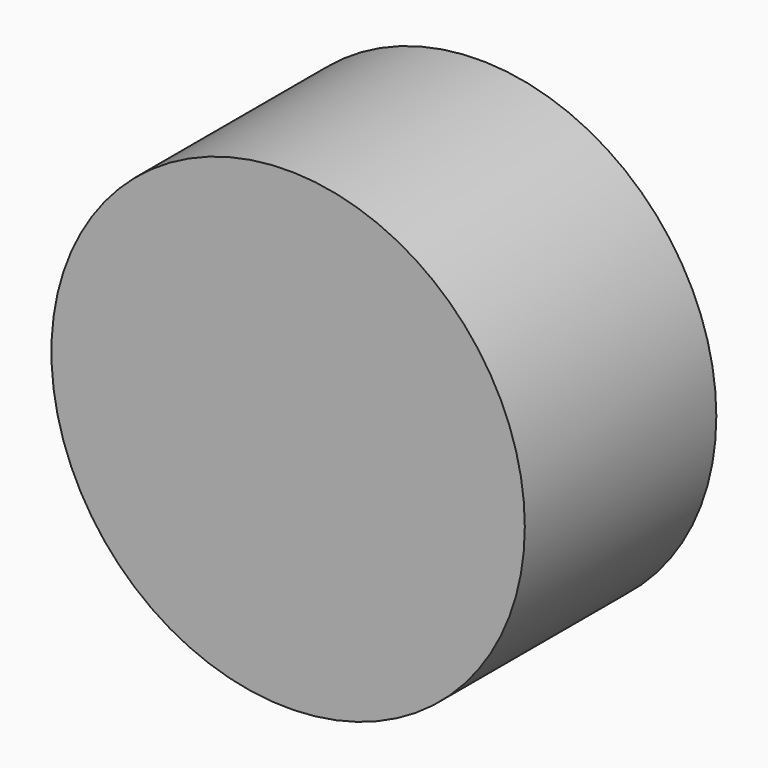
from build123d import *

# Parameters (mm, degrees)
F0_R     = 50.229293
F1_DEPTH = 50.8
F3_DEPTH = 20


with BuildPart() as f1:
    # F0 (on Front) → F1 (new body)
    with BuildSketch(Plane.XZ):
        Circle(F0_R)
    extrude(amount=F1_DEPTH)


with BuildPart() as f3:
    # F2 (on Front) → F3 (new body)
    with BuildSketch(Plane.XZ):
        with BuildLine():
            ThreePointArc((0, -27.947968), (18.700693, -19.193404), (26.314599, 0))
            ThreePointArc((26.314599, 0), (-22.068816, 19.193404), (0, -27.947968))
        make_face()
    extrude(amount=F3_DEPTH)


solid = Compound([f1.part, f3.part])
